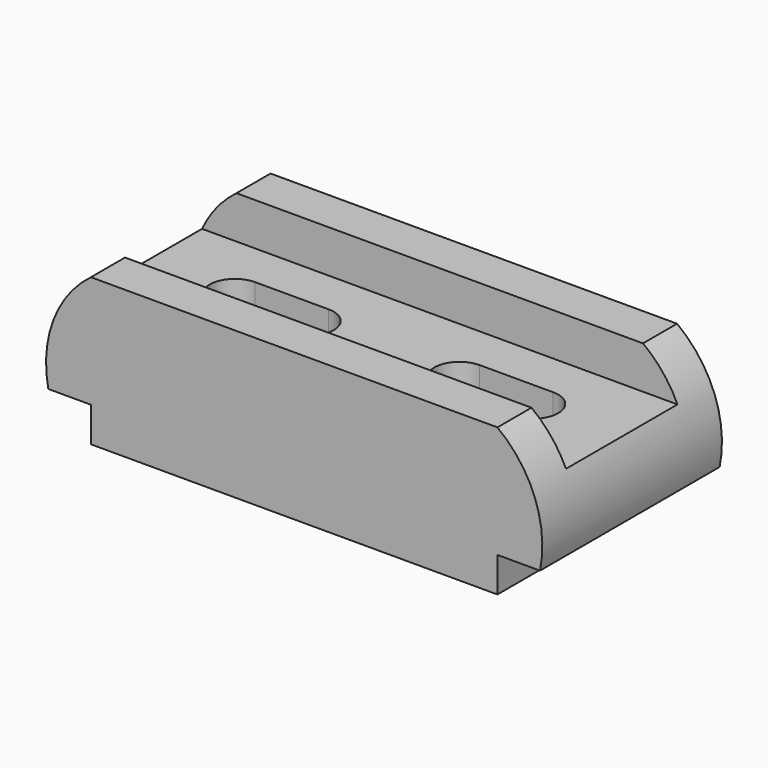
from build123d import *

# Parameters (mm, degrees)
F1_DEPTH = 29
F2_W     = 124.405438
F2_H     = 36
F3_DEPTH = 11
F5_DEPTH = 38.001


with BuildPart() as f1:
    # F0 (on Front) → F1 (new body, symmetric)
    with BuildSketch(Plane.XZ):
        with BuildLine():
            Line((-52.5, 0), (0, 0))
            Line((0, 0), (52.5, 0))
            Line((52.5, 0), (52.5, 9))
            Line((52.5, 9), (63.5, 9))
            ThreePointArc((63.5, 9), (62.202719, 25.094135), (52.5, 38))
            Line((52.5, 38), (0, 38))
            Line((0, 38), (-52.5, 38))
            ThreePointArc((-52.5, 38), (-62.202719, 25.094135), (-63.5, 9))
            Line((-63.5, 9), (-52.5, 9))
            Line((-52.5, 9), (-52.5, 0))
        make_face()
    extrude(amount=F1_DEPTH, both=True)

    # F2 (on face) → F3 (cut)
    with BuildSketch(Plane.XY.offset(38)):
        Rectangle(F2_W, F2_H)
    extrude(amount=-F3_DEPTH, mode=Mode.SUBTRACT)

    # F4 (on Top) → F5 (cut, through all)
    with BuildSketch(Plane.XY):
        with BuildLine():
            Line((-19.5, 6.5), (-38.5, 6.5))
            ThreePointArc((-38.5, 6.5), (-45, 0), (-38.5, -6.5))
            Line((-38.5, -6.5), (-19.5, -6.5))
            ThreePointArc((-19.5, -6.5), (-13, 0), (-19.5, 6.5))
        make_face()
        with BuildLine():
            ThreePointArc((19.5, 6.5), (13, 0), (19.5, -6.5))
            Line((19.5, -6.5), (38.5, -6.5))
            ThreePointArc((38.5, -6.5), (45, 0), (38.5, 6.5))
            Line((38.5, 6.5), (19.5, 6.5))
        make_face()
    extrude(amount=F5_DEPTH, mode=Mode.SUBTRACT)


solid = f1.part
